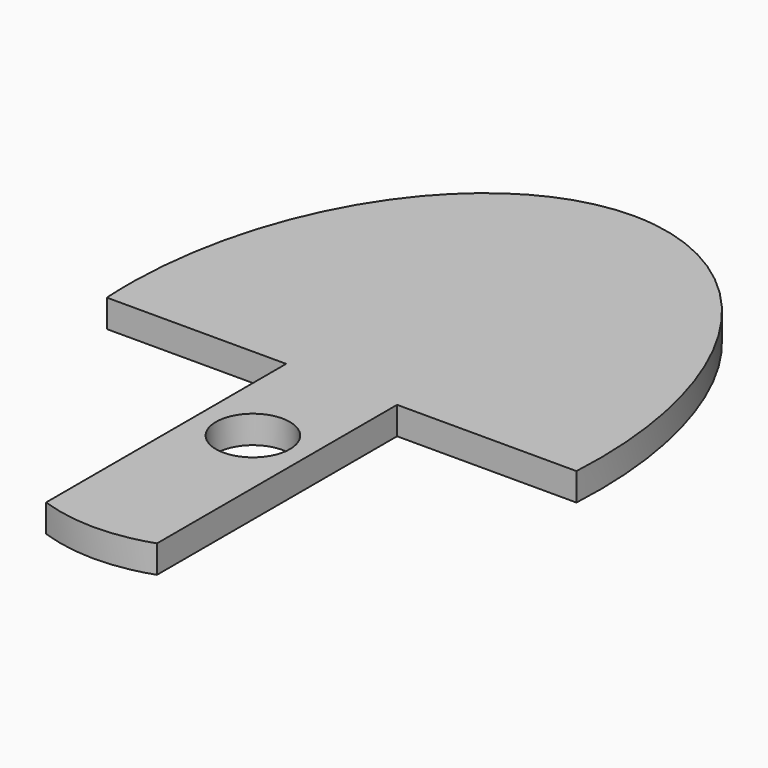
from build123d import *

# Parameters (mm, degrees)
F1_DEPTH = 3
F4_DEPTH = 25
F2_R     = 4
F5_DEPTH = 25


with BuildPart() as f1:
    # F0 (on Top) → F1 (new body)
    with BuildSketch(Plane.XY):
        with BuildLine():
            add(Edge.make_bspline(
                [(0, 36.5), (-44.167296, 36.5), (-22.083648, -18.25), (0, -73), (22.083648, -18.25), (44.167296, 36.5), (0, 36.5)],
                knots=[0, 0, 0, 2.094395, 2.094395, 4.18879, 4.18879, 6.283185, 6.283185, 6.283185], degree=2, weights=[1, 0.5, 1, 0.5, 1, 0.5, 1]))
        make_face()
    extrude(amount=F1_DEPTH)

    # F3 (on face) → F4 (cut)
    with BuildSketch(Plane.XY.offset(3)):
        with BuildLine():
            Line((-6, -35.475234), (-6, -3))
            Line((-6, -3), (-25.413722, -3))
            add(Edge.make_bspline(
                [(-25.413722, -3), (-24.943593, -11.159594), (-22.083648, -18.25), (-16.620171, -31.795106), (-6, -35.475234)],
                knots=[1.614123, 1.614123, 1.614123, 2.094395, 2.094395, 2.925166, 2.925166, 2.925166], degree=2, weights=[0.823271, 0.885343, 1, 0.801668, 0.760678]))
        make_face()
        with BuildLine():
            Line((6, -3), (6, -35.475234))
            add(Edge.make_bspline(
                [(6, -35.475234), (16.620171, -31.795106), (22.083648, -18.25), (24.943593, -11.159594), (25.413722, -3)],
                knots=[3.358019, 3.358019, 3.358019, 4.18879, 4.18879, 4.669062, 4.669062, 4.669062], degree=2, weights=[0.760678, 0.801668, 1, 0.885343, 0.823271]))
            Line((25.413722, -3), (6, -3))
        make_face()
    extrude(amount=-F4_DEPTH, mode=Mode.SUBTRACT)

    # F2 (on face) → F5 (cut)
    with BuildSketch(Plane.XY.offset(3)):
        with Locations((0, -15)):
            Circle(F2_R)
    extrude(amount=-F5_DEPTH, mode=Mode.SUBTRACT)


solid = f1.part
